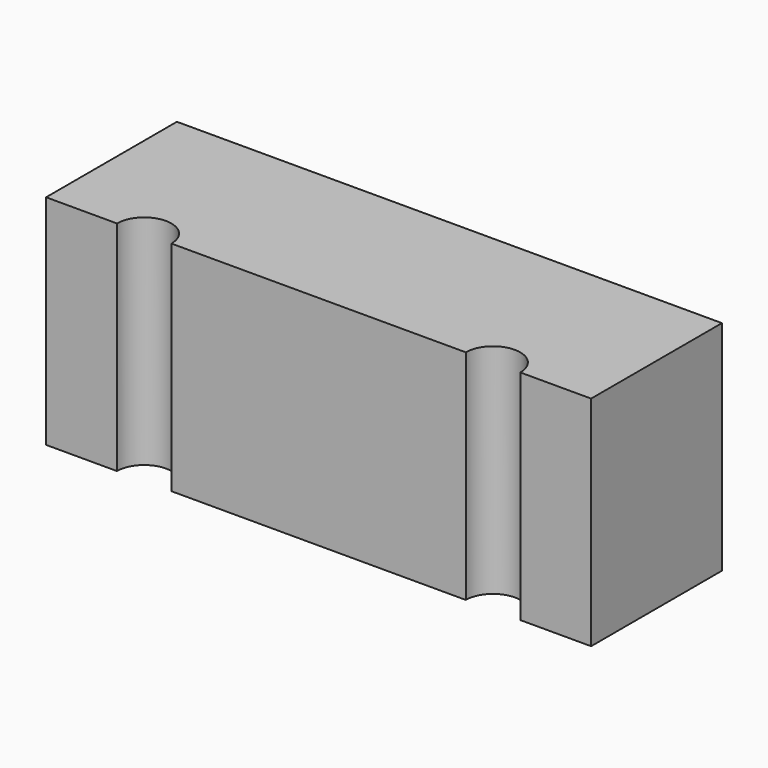
from build123d import *

# Parameters (mm, degrees)
F1_DEPTH = 10


with BuildPart() as f1:
    # F0 (on Top) → F1 (new body)
    with BuildSketch(Plane.XY):
        with BuildLine():
            Line((-17.0999729578, 13.9659811929), (-29.5999729578, 13.9659811929))
            Line((-29.5999729578, 13.9659811929), (-29.5999729578, 6.4659811929))
            Line((-29.5999729578, 6.4659811929), (-26.3499729578, 6.4659811929))
            ThreePointArc((-26.3499729578, 6.4659811929), (-25.0999729578, 7.7159811929), (-23.8499729578, 6.4659811929))
            Line((-23.8499729578, 6.4659811929), (-17.0999729578, 6.4659811929))
            Line((-17.0999729578, 6.4659811929), (-17.0999729578, 13.9659811929))
        make_face()
        with BuildLine():
            Line((-4.5999729578, 13.9659811929), (-17.0999729578, 13.9659811929))
            Line((-17.0999729578, 13.9659811929), (-17.0999729578, 6.4659811929))
            Line((-17.0999729578, 6.4659811929), (-10.3499729578, 6.4659811929))
            ThreePointArc((-10.3499729578, 6.4659811929), (-9.0999729578, 7.7159811929), (-7.8499729578, 6.4659811929))
            Line((-7.8499729578, 6.4659811929), (-4.5999729578, 6.4659811929))
            Line((-4.5999729578, 6.4659811929), (-4.5999729578, 13.9659811929))
        make_face()
    extrude(amount=F1_DEPTH)


solid = f1.part
